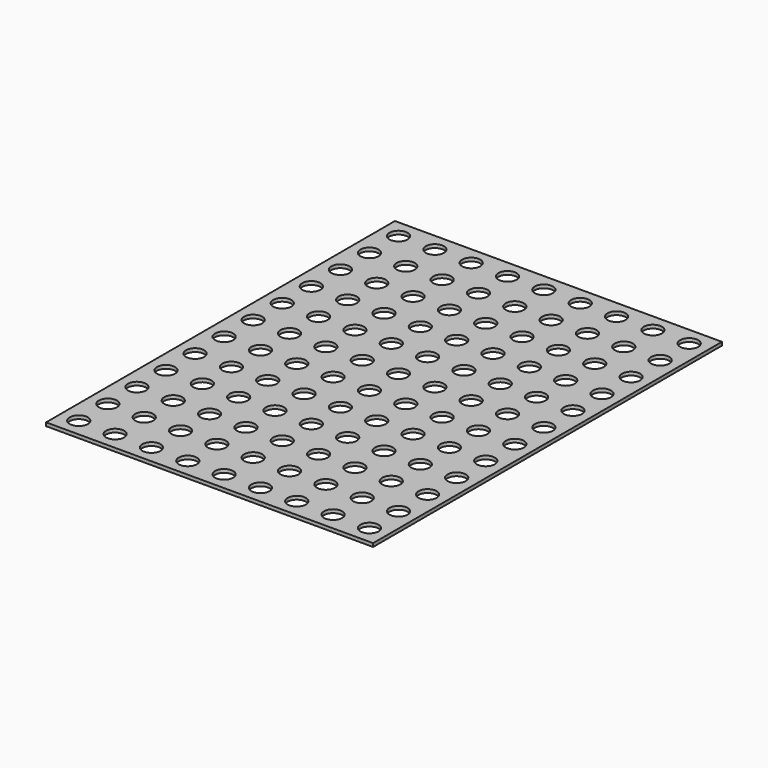
from build123d import *

# Parameters (mm, degrees)
F0_W     = 914.4
F0_H     = 1219.2
F1_DEPTH = 9.525
F2_R     = 25.4
F3_DEPTH = 9.525


with BuildPart() as f1:
    # F0 (on Top) → F1 (new body)
    with BuildSketch(Plane.XY):
        Rectangle(F0_W, F0_H)
    extrude(amount=F1_DEPTH)

    # F2 (on face) → F3 (cut, through all)
    with BuildSketch(Plane.XY.offset(9.525)):
        with Locations((-406.4, 558.8)):
            Circle(F2_R)
        with Locations((-304.8, 558.8)):
            Circle(F2_R)
        with Locations((-203.2, 558.8)):
            Circle(F2_R)
        with Locations((-101.6, 558.8)):
            Circle(F2_R)
        with Locations((0, 558.8)):
            Circle(F2_R)
        with Locations((101.6, 558.8)):
            Circle(F2_R)
        with Locations((203.2, 558.8)):
            Circle(F2_R)
        with Locations((304.8, 558.8)):
            Circle(F2_R)
        with Locations((406.4, 558.8)):
            Circle(F2_R)
        with Locations((-101.6, 457.2)):
            Circle(F2_R)
        with Locations((0, 457.2)):
            Circle(F2_R)
        with Locations((101.6, 457.2)):
            Circle(F2_R)
        with Locations((203.2, 457.2)):
            Circle(F2_R)
        with Locations((406.4, 457.2)):
            Circle(F2_R)
        with Locations((-203.2, 457.2)):
            Circle(F2_R)
        with Locations((-304.8, 457.2)):
            Circle(F2_R)
        with Locations((-406.4, 457.2)):
            Circle(F2_R)
        with Locations((304.8, 457.2)):
            Circle(F2_R)
        with Locations((-101.6, 355.6)):
            Circle(F2_R)
        with Locations((0, 355.6)):
            Circle(F2_R)
        with Locations((101.6, 355.6)):
            Circle(F2_R)
        with Locations((203.2, 355.6)):
            Circle(F2_R)
        with Locations((406.4, 355.6)):
            Circle(F2_R)
        with Locations((-203.2, 355.6)):
            Circle(F2_R)
        with Locations((-304.8, 355.6)):
            Circle(F2_R)
        with Locations((-406.4, 355.6)):
            Circle(F2_R)
        with Locations((304.8, 355.6)):
            Circle(F2_R)
        with Locations((-101.6, 254)):
            Circle(F2_R)
        with Locations((0, 254)):
            Circle(F2_R)
        with Locations((101.6, 254)):
            Circle(F2_R)
        with Locations((203.2, 254)):
            Circle(F2_R)
        with Locations((406.4, 254)):
            Circle(F2_R)
        with Locations((-203.2, 254)):
            Circle(F2_R)
        with Locations((-304.8, 254)):
            Circle(F2_R)
        with Locations((-406.4, 254)):
            Circle(F2_R)
        with Locations((304.8, 254)):
            Circle(F2_R)
        with Locations((-101.6, 152.4)):
            Circle(F2_R)
        with Locations((0, 152.4)):
            Circle(F2_R)
        with Locations((101.6, 152.4)):
            Circle(F2_R)
        with Locations((203.2, 152.4)):
            Circle(F2_R)
        with Locations((406.4, 152.4)):
            Circle(F2_R)
        with Locations((-203.2, 152.4)):
            Circle(F2_R)
        with Locations((-304.8, 152.4)):
            Circle(F2_R)
        with Locations((-406.4, 152.4)):
            Circle(F2_R)
        with Locations((304.8, 152.4)):
            Circle(F2_R)
        with Locations((-101.6, 50.8)):
            Circle(F2_R)
        with Locations((0, 50.8)):
            Circle(F2_R)
        with Locations((101.6, 50.8)):
            Circle(F2_R)
        with Locations((203.2, 50.8)):
            Circle(F2_R)
        with Locations((406.4, 50.8)):
            Circle(F2_R)
        with Locations((-203.2, 50.8)):
            Circle(F2_R)
        with Locations((-304.8, 50.8)):
            Circle(F2_R)
        with Locations((-406.4, 50.8)):
            Circle(F2_R)
        with Locations((304.8, 50.8)):
            Circle(F2_R)
        with Locations((-101.6, -50.8)):
            Circle(F2_R)
        with Locations((0, -50.8)):
            Circle(F2_R)
        with Locations((101.6, -50.8)):
            Circle(F2_R)
        with Locations((203.2, -50.8)):
            Circle(F2_R)
        with Locations((406.4, -50.8)):
            Circle(F2_R)
        with Locations((-203.2, -50.8)):
            Circle(F2_R)
        with Locations((-304.8, -50.8)):
            Circle(F2_R)
        with Locations((-406.4, -50.8)):
            Circle(F2_R)
        with Locations((304.8, -50.8)):
            Circle(F2_R)
        with Locations((-101.6, -152.4)):
            Circle(F2_R)
        with Locations((0, -152.4)):
            Circle(F2_R)
        with Locations((101.6, -152.4)):
            Circle(F2_R)
        with Locations((203.2, -152.4)):
            Circle(F2_R)
        with Locations((406.4, -152.4)):
            Circle(F2_R)
        with Locations((-203.2, -152.4)):
            Circle(F2_R)
        with Locations((-304.8, -152.4)):
            Circle(F2_R)
        with Locations((-406.4, -152.4)):
            Circle(F2_R)
        with Locations((304.8, -152.4)):
            Circle(F2_R)
        with Locations((-101.6, -254)):
            Circle(F2_R)
        with Locations((0, -254)):
            Circle(F2_R)
        with Locations((101.6, -254)):
            Circle(F2_R)
        with Locations((203.2, -254)):
            Circle(F2_R)
        with Locations((406.4, -254)):
            Circle(F2_R)
        with Locations((-203.2, -254)):
            Circle(F2_R)
        with Locations((-304.8, -254)):
            Circle(F2_R)
        with Locations((-406.4, -254)):
            Circle(F2_R)
        with Locations((304.8, -254)):
            Circle(F2_R)
        with Locations((-101.6, -355.6)):
            Circle(F2_R)
        with Locations((0, -355.6)):
            Circle(F2_R)
        with Locations((101.6, -355.6)):
            Circle(F2_R)
        with Locations((203.2, -355.6)):
            Circle(F2_R)
        with Locations((406.4, -355.6)):
            Circle(F2_R)
        with Locations((-203.2, -355.6)):
            Circle(F2_R)
        with Locations((-304.8, -355.6)):
            Circle(F2_R)
        with Locations((-406.4, -355.6)):
            Circle(F2_R)
        with Locations((304.8, -355.6)):
            Circle(F2_R)
        with Locations((-101.6, -457.2)):
            Circle(F2_R)
        with Locations((0, -457.2)):
            Circle(F2_R)
        with Locations((101.6, -457.2)):
            Circle(F2_R)
        with Locations((203.2, -457.2)):
            Circle(F2_R)
        with Locations((406.4, -457.2)):
            Circle(F2_R)
        with Locations((-203.2, -457.2)):
            Circle(F2_R)
        with Locations((-304.8, -457.2)):
            Circle(F2_R)
        with Locations((-406.4, -457.2)):
            Circle(F2_R)
        with Locations((304.8, -457.2)):
            Circle(F2_R)
        with Locations((-101.6, -558.8)):
            Circle(F2_R)
        with Locations((0, -558.8)):
            Circle(F2_R)
        with Locations((101.6, -558.8)):
            Circle(F2_R)
        with Locations((203.2, -558.8)):
            Circle(F2_R)
        with Locations((406.4, -558.8)):
            Circle(F2_R)
        with Locations((-203.2, -558.8)):
            Circle(F2_R)
        with Locations((-304.8, -558.8)):
            Circle(F2_R)
        with Locations((-406.4, -558.8)):
            Circle(F2_R)
        with Locations((304.8, -558.8)):
            Circle(F2_R)
    extrude(amount=-F3_DEPTH, mode=Mode.SUBTRACT)


solid = f1.part
